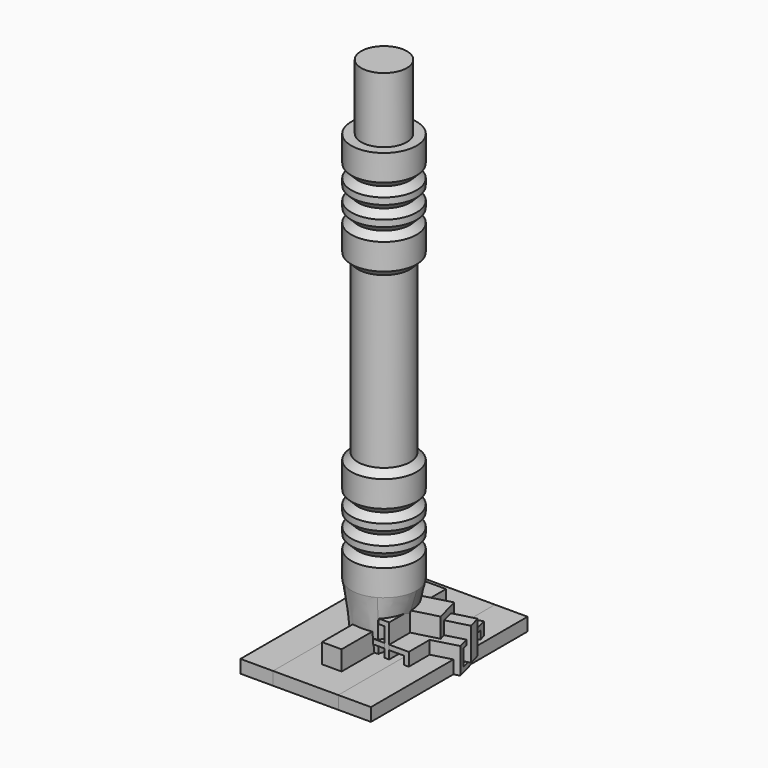
from build123d import *

# Parameters (mm, degrees)
SKETCH_W        = 20
SKETCH_H        = 30
PAD_DEPTH       = 2
SKETCH001_W     = 3
SKETCH001_H     = 20
PAD001_DEPTH    = 3
SKETCH002_W     = 2
SKETCH002_H     = 5
PAD002_DEPTH    = 3.5
PAD003_DEPTH    = 4
SKETCH004_W     = 5.5
SKETCH004_H     = 2.5
POCKET_DEPTH    = 4
SKETCH005_W     = 5
SKETCH005_H     = 2.5
POCKET001_DEPTH = 4
PAD004_DEPTH    = 7
SKETCH007_W     = 2.5
SKETCH007_H     = 5.5
POCKET002_DEPTH = 4
SKETCH008_W     = 2
SKETCH008_H     = 5
PAD006_DEPTH    = 3.5
SKETCH010_R     = 5
SKETCH009_W     = 4
SKETCH009_H     = 7
SKETCH013_R     = 3.5
PAD005_DEPTH    = 10
SKETCH014_W     = 2.5
SKETCH014_H     = 5.5
POCKET003_DEPTH = 4
SKETCH015_W     = 10
SKETCH015_H     = 30
PAD007_DEPTH    = 2
SKETCH016_W     = 3
SKETCH016_H     = 20
PAD008_DEPTH    = 3
SKETCH017_W     = 2
SKETCH017_H     = 5
PAD009_DEPTH    = 3.5


with BuildPart() as connectorback:
    # Sketch → Pad (new body)
    with BuildSketch(Plane.XY):
        Rectangle(SKETCH_W, SKETCH_H)
    extrude(amount=PAD_DEPTH)

    # Sketch001 (on Face6 of Pad) → Pad001 (join)
    with BuildSketch(Plane.XY.offset(2)):
        Rectangle(SKETCH001_W, SKETCH001_H)
    extrude(amount=PAD001_DEPTH)

    # Sketch002 (on Face11 of Pad001) → Pad002 (join)
    with BuildSketch(Plane.XY.offset(5)):
        Rectangle(SKETCH002_W, SKETCH002_H)
    extrude(amount=PAD002_DEPTH)


with BuildPart() as obj1:
    # Sketch003 → Pad003 (new body)
    with BuildSketch(Plane.XY):
        Polygon((7, 0), (7, -4), (0, -4), (0, 5.371289), (9.05197, 7.796757), (10.863703, 1.035276), align=None)
    extrude(amount=PAD003_DEPTH)

    # Sketch004 (on Face2 of Pad003) → Pocket (cut)
    with BuildSketch(Plane.XZ.offset(4)):
        with Locations((3.5, 2)):
            Rectangle(SKETCH004_W, SKETCH004_H)
    extrude(amount=-POCKET_DEPTH, mode=Mode.SUBTRACT)

    # Sketch005 (on Face6 of Pocket) → Pocket001 (cut)
    with BuildSketch(Plane(origin=(10.394792, 2.785276, 0), x_dir=(-0.258819, 0.965926, 0), z_dir=(0.965926, 0.258819, 0))):
        with Locations((1.7, 2)):
            Rectangle(SKETCH005_W, SKETCH005_H)
    extrude(amount=-POCKET001_DEPTH, mode=Mode.SUBTRACT)


with BuildPart() as rotatorvertical:
    # Sketch006 → Pad004 (new body)
    with BuildSketch(Plane.XY):
        Polygon((4, 0), (4, -4), (0, -4), (0, 3.069308), (6.828427, 4.898979), (7.863703, 1.035276), align=None)
    extrude(amount=PAD004_DEPTH)

    # Sketch007 (on Face2 of Pad004) → Pocket002 (cut)
    with BuildSketch(Plane.XZ.offset(4)):
        with Locations((2, 3.5)):
            Rectangle(SKETCH007_W, SKETCH007_H)
    extrude(amount=-POCKET002_DEPTH, mode=Mode.SUBTRACT)

    # Sketch008 (on Face6 of Pocket002) → Pad006 (join)
    with BuildSketch(Plane(origin=(7.595754, 2.035276, 0), x_dir=(-0.258819, 0.965926, 0), z_dir=(0.965926, 0.258819, 0))):
        with Locations((1, 3.5)):
            Rectangle(SKETCH008_W, SKETCH008_H)
    extrude(amount=PAD006_DEPTH)


with BuildPart() as pillar:
    # Sketch010 → AdditiveLoft section 0
    with BuildSketch(Plane.XY.offset(10)):
        Circle(SKETCH010_R)
    # Sketch009 → AdditiveLoft section 1
    with BuildSketch(Plane.XY):
        Rectangle(SKETCH009_W, SKETCH009_H)
    loft()

    # Sketch012 → Revolution (revolve)
    with BuildSketch(Plane(origin=(0, 0, 10), x_dir=(0, 1, 0), z_dir=(1, 0, 0))):
        Polygon((0, 0), (5, 0), (5, 4), (4, 5), (5, 6), (5, 7), (4, 8), (5, 9), (5, 10), (4, 11), (5, 12), (5, 16), (4, 17), (4, 43), (5, 44), (5, 48), (4, 49), (5, 50), (5, 51), (4, 52), (5, 53), (5, 54), (4, 55), (5, 56), (5, 60), (0, 60), align=None)
    revolve(axis=Axis((0, 0, 10), (0, 0, 1)))

    # Sketch013 (on Face30 of Revolution) → Pad005 (new body)
    with BuildSketch(Plane.XY.offset(70)):
        Circle(SKETCH013_R)
    extrude(amount=PAD005_DEPTH)

    # Sketch014 (on Face4 of Pad005) → Pocket003 (cut)
    with BuildSketch(Plane(origin=(0, 0, 0), x_dir=(1, 0, 0), z_dir=(0, 0, -1))):
        Rectangle(SKETCH014_W, SKETCH014_H)
    extrude(amount=-POCKET003_DEPTH, mode=Mode.SUBTRACT)


with BuildPart() as connectorfront:
    # Sketch015 → Pad007 (new body)
    with BuildSketch(Plane.XY):
        Rectangle(SKETCH015_W, SKETCH015_H)
    extrude(amount=PAD007_DEPTH)

    # Sketch016 (on Face6 of Pad007) → Pad008 (join)
    with BuildSketch(Plane.XY.offset(2)):
        Rectangle(SKETCH016_W, SKETCH016_H)
    extrude(amount=PAD008_DEPTH)

    # Sketch017 (on Face11 of Pad008) → Pad009 (join)
    with BuildSketch(Plane.XY.offset(5)):
        Rectangle(SKETCH017_W, SKETCH017_H)
    extrude(amount=PAD009_DEPTH)


solid = Compound([connectorback.part, obj1.part, rotatorvertical.part, pillar.part, connectorfront.part])
